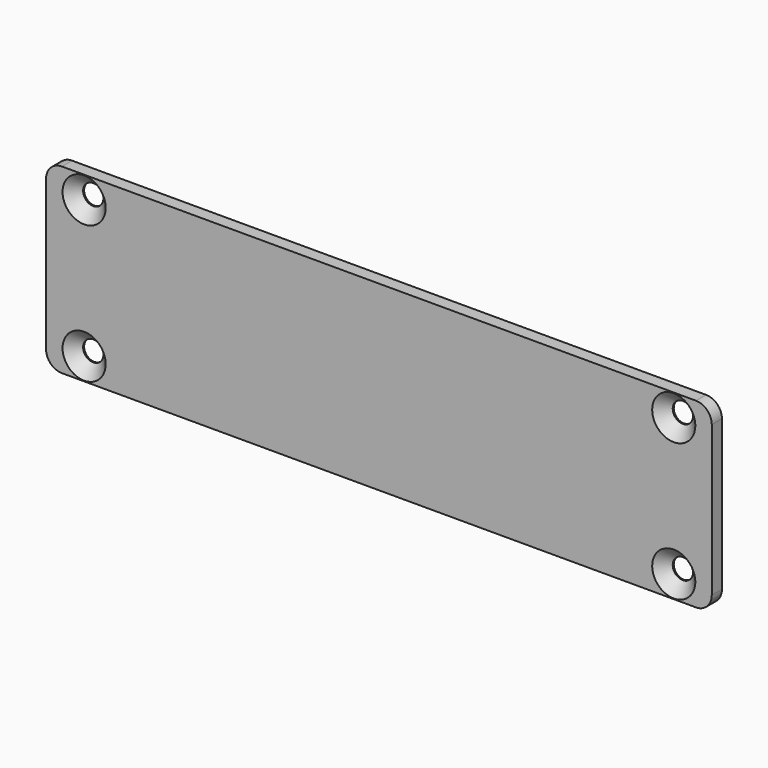
from build123d import *

# Parameters (mm, degrees)
SKETCH_W         = 105
SKETCH_H         = 28.7
PAD_DEPTH        = 2
FILLET_R         = 2.5
HOLE_D           = 3.2
HOLE_DEPTH       = 25
HOLE_CSINK_D     = 6.8
HOLE_CSINK_ANGLE = 90


with BuildPart() as part:
    # Sketch → Pad (new body)
    with BuildSketch(Plane.XZ):
        Rectangle(SKETCH_W, SKETCH_H)
    extrude(amount=-PAD_DEPTH)

    # Fillet
    fillet_edges = [part.edges().sort_by_distance(p)[0] for p in [
        (52.5, 1, 14.35),
        (52.5, 1, -14.35),
        (-52.5, 1, 14.35),
        (-52.5, 1, -14.35),
    ]]
    fillet(fillet_edges, radius=FILLET_R)

    # Hole
    with Locations(Plane.XZ):
        with Locations((46.5, 10.85), (46.5, -10.85), (-46.5, -10.85), (-46.5, 10.85)):
            CounterSinkHole(HOLE_D / 2, HOLE_CSINK_D / 2, depth=HOLE_DEPTH, counter_sink_angle=HOLE_CSINK_ANGLE)


solid = part.part
